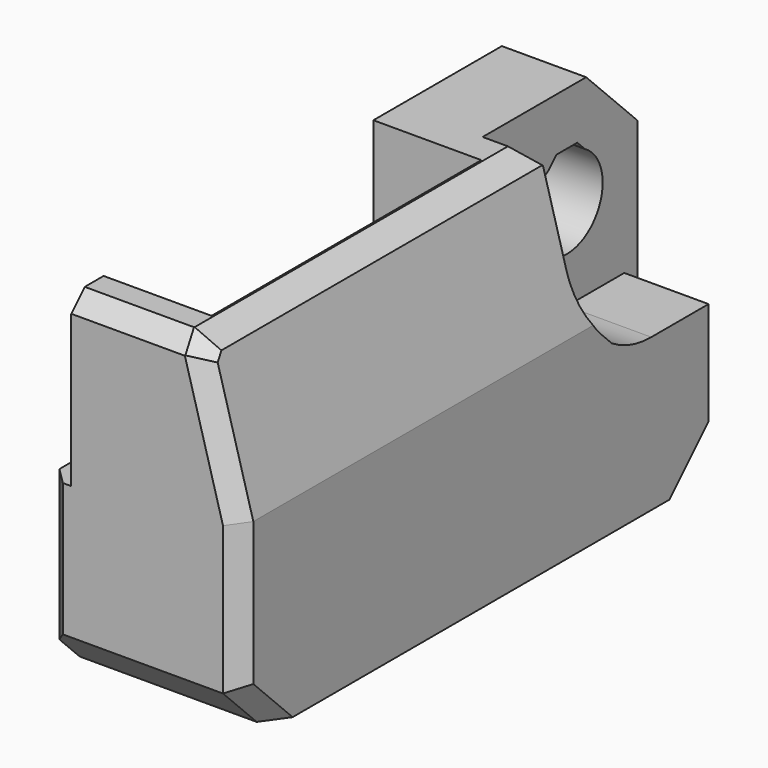
from build123d import *

# Parameters (mm, degrees)
PAD003_DEPTH        = 10
POCKET004_DEPTH     = 5
SKETCH009_R         = 2.65
POCKET005_DEPTH     = 5.001
POCKET006_DEPTH     = 5.001
SKETCH011_W         = 20
SKETCH011_H         = 11.5
POCKET007_DEPTH     = 6.4
LINEARPATTERN_COUNT = 2
LINEARPATTERN_PITCH = 9.5
SKETCH013_W         = 35.75
SKETCH013_H         = 1.5
PAD004_DEPTH        = 1.5
POCKET008_DEPTH     = 35.751
PAD009_DEPTH        = 8.9
SKETCH024_W         = 20
SKETCH024_H         = 6.495
POCKET013_DEPTH     = 7.9
PAD010_DEPTH        = 5
POCKET014_DEPTH     = 13.35
POCKET015_DEPTH     = 3
POCKET016_DEPTH     = 33.35
SKETCH029_W         = 20
SKETCH029_H         = 1.5
PAD011_DEPTH        = 6.495
CHAMFER_SIZE        = 2.5
CHAMFER014_SIZE     = 1
CHAMFER015_SIZE     = 1
CHAMFER016_SIZE     = 1
CHAMFER017_SIZE     = 1
CHAMFER018_SIZE     = 1
CHAMFER020_SIZE     = 0.25


with BuildPart() as z_positive:
    # Sketch007 (on Face1 of ShapeBinder004) → Pad003 (new body)
    with BuildSketch(Plane.YZ.offset(29)):
        Polygon((-41, 51.125), (-5.25, 51.125), (-5.25, 43.450379), (-9.075379, 39.625), (-41, 39.625), align=None)
    extrude(amount=PAD003_DEPTH)

    # Sketch008 (on Face7 of Pad003) → Pocket004 (cut)
    with BuildSketch(Plane.YZ.offset(39)):
        with BuildLine():
            ThreePointArc((-14.212331, 49.33729), (-15.350373, 47.634075), (-15.75, 45.625))
            Line((-15.75, 45.625), (-15.75, 39.625))
            Line((-15.75, 39.625), (-5.25, 39.625))
            Line((-5.25, 39.625), (-5.25, 51.125))
            Line((-13.424621, 51.125), (-5.25, 51.125))
            Line((-13.424621, 50.125), (-13.424621, 51.125))
            Line((-14.212331, 49.33729), (-13.424621, 50.125))
        make_face()
    extrude(amount=-POCKET004_DEPTH, mode=Mode.SUBTRACT)

    # Sketch009 (on Face7 of Pocket004) → Pocket005 (cut, through all)
    with BuildSketch(Plane.YZ.offset(34)):
        with Locations((-10.5, 45.625)):
            Circle(SKETCH009_R)
    extrude(amount=-POCKET005_DEPTH, mode=Mode.SUBTRACT)

    # Sketch010 (on Face7 of Pocket005) → Pocket006 (cut, through all)
    with BuildSketch(Plane.YZ.offset(34)):
        Polygon((-11.825, 43.330033), (-11.268967, 42.774), (-9.731033, 42.774), (-9.175, 43.330033), align=None)
    extrude(amount=-POCKET006_DEPTH, mode=Mode.SUBTRACT)

    # Sketch011 (on Face4 of Pocket006) → Pocket007 (cut)
    with BuildSketch(Plane(origin=(29, 0, 0), x_dir=(0, 1, 0), z_dir=(-1, 0, 0))):
        with Locations((-28.6, -45.375)):
            Rectangle(SKETCH011_W, SKETCH011_H)
    extrude(amount=-POCKET007_DEPTH, mode=Mode.SUBTRACT)

    # Sketch012 (on DatumPlane) → Revolution (revolve)
    with BuildSketch(Plane(origin=(0, 0, 46.725), x_dir=(0, -1, 0), z_dir=(0, 0, 1))):
        Polygon((23.8, 35.4), (23.8, 34.85), (24.3, 34.85), (24.85, 35.4), align=None)
    revolution = revolve(axis=Axis((35.4, -23.8, 46.725), (-1, 0, 0)))

    # LinearPattern: Revolution ×2
    with Locations(*[(0, -i * LINEARPATTERN_PITCH, 0) for i in range(1, LINEARPATTERN_COUNT)]):
        add(revolution)

    # Sketch013 (on Face9 of LinearPattern) → Pad004 (join)
    with BuildSketch(Plane(origin=(29, 0, 0), x_dir=(0, 1, 0), z_dir=(-1, 0, 0))):
        with Locations((-23.125, -50.375)):
            Rectangle(SKETCH013_W, SKETCH013_H)
    extrude(amount=PAD004_DEPTH)

    # Sketch014 (on Face25 of Pad004) → Pocket008 (cut, through all)
    with BuildSketch(Plane(origin=(0, -41, 0), x_dir=(0, 0, -1), z_dir=(0, -1, 0))):
        Polygon((-39.625, 36.5), (-48.625, 39), (-39.625, 39), align=None)
    extrude(amount=-POCKET008_DEPTH, mode=Mode.SUBTRACT)

    # Sketch023 (on Face13 of Pocket008) → Pad009 (join)
    with BuildSketch(Plane(origin=(0, 0, 51.125), x_dir=(0, -1, 0), z_dir=(0, 0, 1))):
        Polygon((5.25, 34), (13.424621, 34), (13.424621, 39), (41, 39), (41, 27.5), (5.25, 27.5), align=None)
    extrude(amount=PAD009_DEPTH)

    # Sketch024 (on Face29 of Pad009) → Pocket013 (cut)
    with BuildSketch(Plane(origin=(27.5, 0, 0), x_dir=(0, 1, 0), z_dir=(-1, 0, 0))):
        with Locations((-28.6, -52.8725)):
            Rectangle(SKETCH024_W, SKETCH024_H)
    extrude(amount=-POCKET013_DEPTH, mode=Mode.SUBTRACT)

    # Sketch025 (on Face23 of Pad009) → Pad010 (join)
    with BuildSketch(Plane.YZ.offset(34)):
        with BuildLine():
            ThreePointArc((-10.5, 50.991881), (-12.025196, 50.770599), (-13.424621, 50.125))
            Line((-13.424621, 60.025), (-13.424621, 50.125))
            Line((-5.25, 60.025), (-13.424621, 60.025))
            Line((-5.25, 50.991881), (-5.25, 60.025))
            Line((-10.5, 50.991881), (-5.25, 50.991881))
        make_face()
    extrude(amount=PAD010_DEPTH)

    # Sketch026 (on Face28 of Pad010) → Pocket014 (cut)
    with BuildSketch(Plane.ZX.offset(-5.25)):
        with BuildLine():
            ThreePointArc((50.75, 32.25), (49.625, 31.125), (50.75, 30))
            Line((50.75, 30), (52, 30))
            ThreePointArc((52, 30), (53.125, 31.125), (52, 32.25))
            Line((50.75, 32.25), (52, 32.25))
        make_face()
    extrude(amount=-POCKET014_DEPTH, mode=Mode.SUBTRACT)

    # Sketch027 (on Face5 of Pocket014) → Pocket015 (cut)
    with BuildSketch(Plane(origin=(0, -18.6, 0), x_dir=(0, 0, -1), z_dir=(0, -1, 0))):
        with BuildLine():
            ThreePointArc((-52, 30), (-50.875, 31.125), (-52, 32.25))
            Line((-52, 32.25), (-54.995, 32.25))
            ThreePointArc((-54.995, 32.25), (-56.12, 31.125), (-54.995, 30))
            Line((-52, 30), (-54.995, 30))
        make_face()
    extrude(amount=-POCKET015_DEPTH, mode=Mode.SUBTRACT)

    # Sketch028 (on Face20 of Pocket015) → Pocket016 (cut)
    with BuildSketch(Plane.ZX.offset(-5.25)):
        Polygon((49.742218, 30.625), (49.575, 30.792218), (49.575, 31.457782), (49.742218, 31.625), align=None)
    extrude(amount=-POCKET016_DEPTH, mode=Mode.SUBTRACT)

    # Sketch029 (on Face14 of Pocket016) → Pad011 (join)
    with BuildSketch(Plane.YX.offset(-56.12)):
        with Locations((-28.6, 28.25)):
            Rectangle(SKETCH029_W, SKETCH029_H)
    extrude(amount=PAD011_DEPTH)

    # Chamfer
    chamfer_edges = [z_positive.edges().sort_by_distance(p)[0] for p in [
        (33.25, -41, 60.025),
        (33.25, -5.25, 60.025),
    ]]
    chamfer(chamfer_edges, length=CHAMFER_SIZE)

    # Chamfer014
    chamfer014_edges = [z_positive.edges().sort_by_distance(p)[0] for p in [
        (32.75, -41, 39.625),
    ]]
    chamfer(chamfer014_edges, length=CHAMFER014_SIZE)

    # Chamfer015
    chamfer015_edges = [z_positive.edges().sort_by_distance(p)[0] for p in [
        (39, -39.75, 58.775),
        (39, -41, 53.075),
        (37.888889, -41, 44.625),
        (36.638889, -40.5, 40.125),
        (36.5, -27.875, 39.625),
        (39, -5.25, 54.25844),
        (39, -6.5, 58.775),
    ]]
    chamfer(chamfer015_edges, length=CHAMFER015_SIZE)

    # Chamfer016
    chamfer016_edges = [z_positive.edges().sort_by_distance(p)[0] for p in [
        (27.5, -5.25, 53.575),
        (27.5, -41, 53.575),
    ]]
    chamfer(chamfer016_edges, length=CHAMFER016_SIZE)

    # Chamfer017
    chamfer017_edges = [z_positive.edges().sort_by_distance(p)[0] for p in [
        (36, -5.25, 50.991881),
    ]]
    chamfer(chamfer017_edges, length=CHAMFER017_SIZE)

    # Chamfer018
    chamfer018_edges = [z_positive.edges().sort_by_distance(p)[0] for p in [
        (34.75, -15.75, 39.625),
    ]]
    chamfer(chamfer018_edges, length=CHAMFER018_SIZE)

    # Chamfer020
    chamfer020_edges = [z_positive.edges().sort_by_distance(p)[0] for p in [
        (31.125, -5.25, 53.125),
        (32.25, -5.25, 51.375),
        (32.081066, -5.25, 50.157073),
        (31.541391, -5.25, 49.658609),
        (31.125, -5.25, 49.575),
        (30.708609, -5.25, 49.658609),
        (30.168934, -5.25, 50.157073),
        (30, -5.25, 51.375),
    ]]
    chamfer(chamfer020_edges, length=CHAMFER020_SIZE)


with BuildPart() as z_negative:
    # Part__Mirroring001: instance of z_positive
    add(z_positive.part.mirror(Plane(origin=(0, 0, 0), x_dir=(0, 1, 0), z_dir=(0, 0, 1))))


solid = z_negative.part
